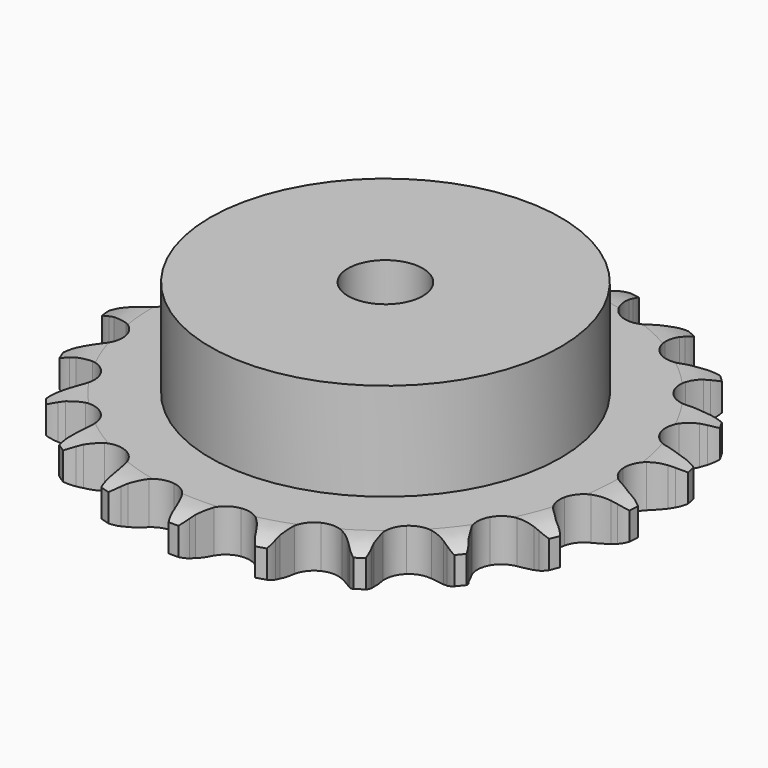
from build123d import *

# Parameters (mm, degrees)
PAD_DEPTH         = 9.1
SKETCH001_R       = 37.5
PAD001_DEPTH      = 30
SKETCH002_R       = 8
POCKET_DEPTH      = 0.001
POCKET_DEPTH_BACK = -30.001


with BuildPart() as part:
    # Sprocket → Pad (new body)
    with BuildSketch(Plane.XY):
        with BuildLine():
            ThreePointArc((-8.672796, 57.540243), (-7.31066, 56.082373), (-6.33219, 54.343582))
            Line((-6.33219, 54.343582), (-5.841747, 53.160938))
            ThreePointArc((-5.841747, 53.160938), (-5.053924, 51.570894), (-4.061016, 50.100166))
            ThreePointArc((-4.061016, 50.100166), (-2.260524, 48.636572), (0, 48.113205))
            ThreePointArc((0, 48.113205), (2.260524, 48.636572), (4.061016, 50.100166))
            ThreePointArc((4.061016, 50.100166), (5.053924, 51.570894), (5.841747, 53.160938))
            Line((5.841747, 53.160938), (6.33219, 54.343582))
            ThreePointArc((6.33219, 54.343582), (7.31066, 56.082373), (8.672796, 57.540243))
            ThreePointArc((8.672796, 57.540243), (9.544702, 55.745645), (9.967183, 53.795695))
            Line((9.967183, 53.795695), (10.087247, 52.521032))
            ThreePointArc((10.087247, 52.521032), (10.371395, 50.769414), (10.886686, 49.071362))
            ThreePointArc((10.886686, 49.071362), (12.175787, 47.142087), (14.181616, 45.97567))
            ThreePointArc((14.181616, 45.97567), (16.495976, 45.809485), (18.64788, 46.67735))
            Line((18.64788, 46.67735), (21.251677, 49.077262))
            ThreePointArc((21.251677, 49.077262), (21.648407, 49.579893), (22.068921, 50.062803))
            ThreePointArc((22.068921, 50.062803), (23.516438, 51.435936), (25.247772, 52.42754))
            ThreePointArc((25.247772, 52.42754), (25.551975, 50.455673), (25.380929, 48.467824))
            Line((25.380929, 48.467824), (25.119945, 47.214402))
            ThreePointArc((25.119945, 47.214402), (24.875171, 45.456849), (24.867059, 43.682351))
            ThreePointArc((24.867059, 43.682351), (25.530225, 41.45882), (27.103133, 39.752996))
            ThreePointArc((27.103133, 39.752996), (29.265689, 38.912024), (31.577797, 39.107048))
            Line((31.577797, 39.107048), (34.773301, 40.632855))
            ThreePointArc((34.773301, 40.632855), (35.300559, 40.996218), (35.844731, 41.333725))
            ThreePointArc((35.844731, 41.333725), (37.632677, 42.21919), (39.579373, 42.65642))
            ThreePointArc((39.579373, 42.65642), (39.288843, 40.682492), (38.539467, 38.833375))
            Line((38.539467, 38.833375), (37.920625, 37.712565))
            ThreePointArc((37.920625, 37.712565), (37.168678, 36.105243), (36.637885, 34.411973))
            ThreePointArc((36.637885, 34.411973), (36.61619, 32.091755), (37.616418, 29.998093))
            ThreePointArc((37.616418, 29.998093), (39.435017, 28.557058), (41.701889, 28.061912))
            Line((41.701889, 28.061912), (45.205165, 28.578041))
            ThreePointArc((45.205165, 28.578041), (45.816102, 28.769848), (46.435579, 28.931963))
            ThreePointArc((46.435579, 28.931963), (48.405087, 29.251083), (50.394173, 29.09509))
            ThreePointArc((50.394173, 29.09509), (49.534725, 27.294493), (48.273605, 25.748409))
            Line((48.273605, 25.748409), (47.351892, 24.859801))
            ThreePointArc((47.351892, 24.859801), (46.159585, 23.545529), (45.153273, 22.083939))
            ThreePointArc((45.153273, 22.083939), (44.448646, 19.873197), (44.787319, 17.577728))
            ThreePointArc((44.787319, 17.577728), (46.10037, 15.664673), (48.120585, 14.523353))
            Line((48.120585, 14.523353), (51.620352, 13.983942))
            ThreePointArc((51.620352, 13.983942), (52.260682, 13.987151), (52.900422, 13.95947))
            ThreePointArc((52.900422, 13.95947), (54.876493, 13.68389), (56.73123, 12.948533))
            ThreePointArc((56.73123, 12.948533), (55.379229, 11.481259), (53.718421, 10.375585))
            Line((53.718421, 10.375585), (52.575735, 9.798134))
            ThreePointArc((52.575735, 9.798134), (51.049011, 8.89369), (49.656595, 7.793651))
            ThreePointArc((49.656595, 7.793651), (48.331645, 5.888818), (47.978671, 3.595504))
            ThreePointArc((47.978671, 3.595504), (48.669504, 1.380413), (50.263556, -0.305671))
            Line((50.263556, -0.305671), (53.448844, -1.852691))
            ThreePointArc((53.448844, -1.852691), (54.061672, -2.038365), (54.664831, -2.253383))
            ThreePointArc((54.664831, -2.253383), (56.471882, -3.099177), (58.027468, -4.348558))
            ThreePointArc((58.027468, -4.348558), (56.303046, -5.352135), (54.390119, -5.919156))
            Line((54.390119, -5.919156), (53.127994, -6.134139))
            ThreePointArc((53.127994, -6.134139), (51.402508, -6.548392), (49.747711, -7.189138))
            ThreePointArc((49.747711, -7.189138), (47.920166, -8.618808), (46.906906, -10.706195))
            ThreePointArc((46.906906, -10.706195), (46.914138, -13.026503), (47.940389, -15.107534))
            Line((47.940389, -15.107534), (50.528172, -17.524704))
            ThreePointArc((50.528172, -17.524704), (51.059045, -17.882764), (51.57203, -18.266013))
            ThreePointArc((51.57203, -18.266013), (53.049496, -19.606869), (54.16771, -21.25926))
            ThreePointArc((54.16771, -21.25926), (52.22409, -21.709969), (50.229017, -21.687953))
            Line((50.229017, -21.687953), (48.959597, -21.521368))
            ThreePointArc((48.959597, -21.521368), (47.188666, -21.40862), (45.418524, -21.53314))
            ThreePointArc((45.418524, -21.53314), (43.250769, -22.360615), (41.667258, -24.056602))
            ThreePointArc((41.667258, -24.056602), (40.990245, -26.275957), (41.357508, -28.567026))
            Line((41.357508, -28.567026), (43.117849, -31.639571))
            ThreePointArc((43.117849, -31.639571), (43.519598, -32.138201), (43.896827, -32.655628))
            ThreePointArc((43.896827, -32.655628), (44.91343, -34.372404), (45.494914, -36.280983))
            ThreePointArc((45.494914, -36.280983), (43.504794, -36.138777), (41.604847, -35.529681))
            Line((41.604847, -35.529681), (40.440925, -34.996328))
            ThreePointArc((40.440925, -34.996328), (38.781905, -34.366599), (37.053702, -33.963828))
            ThreePointArc((37.053702, -33.963828), (34.738352, -34.115584), (32.72529, -35.269475))
            ThreePointArc((32.72529, -35.269475), (31.42419, -37.190677), (31.099831, -39.488213))
            Line((31.099831, -39.488213), (31.876317, -42.943123))
            ThreePointArc((31.876317, -42.943123), (32.113243, -43.538017), (32.321199, -44.143647))
            ThreePointArc((32.321199, -44.143647), (32.786608, -46.0838), (32.779695, -48.078982))
            ThreePointArc((32.779695, -48.078982), (30.919907, -47.356496), (29.283903, -46.214441))
            Line((29.283903, -46.214441), (28.328899, -45.361711))
            ThreePointArc((28.328899, -45.361711), (26.929201, -44.270954), (25.396496, -43.376681))
            ThreePointArc((25.396496, -43.376681), (23.139279, -42.839233), (20.875537, -43.3485))
            ThreePointArc((20.875537, -43.3485), (19.065957, -44.800842), (18.078798, -46.900699))
            Line((18.078798, -46.900699), (17.802434, -50.43099))
            ThreePointArc((17.802434, -50.43099), (17.853486, -51.06929), (17.87369, -51.70931))
            ThreePointArc((17.87369, -51.70931), (17.746553, -53.700449), (17.151856, -55.604953))
            ThreePointArc((17.151856, -55.604953), (15.58765, -54.366382), (14.360955, -52.792845))
            Line((14.360955, -52.792845), (13.699727, -51.696507))
            ThreePointArc((13.699727, -51.696507), (12.683719, -50.241641), (11.4827, -48.935325))
            ThreePointArc((11.4827, -48.935325), (9.48418, -47.756428), (7.170901, -47.57582))
            ThreePointArc((7.170901, -47.57582), (5.01363, -48.430256), (3.451384, -50.145851))
            Line((3.451384, -50.145851), (2.146727, -53.437842))
            ThreePointArc((2.146727, -53.437842), (2.007368, -54.062832), (1.838026, -54.680373))
            ThreePointArc((1.838026, -54.680373), (1.129638, -56.545577), (0, -58.190179))
            ThreePointArc((0, -58.190179), (-1.129638, -56.545577), (-1.838026, -54.680373))
            Line((-1.838026, -54.680373), (-2.146727, -53.437842))
            ThreePointArc((-2.146727, -53.437842), (-2.688767, -51.748138), (-3.451384, -50.145851))
            ThreePointArc((-3.451384, -50.145851), (-5.01363, -48.430256), (-7.170901, -47.57582))
            ThreePointArc((-7.170901, -47.57582), (-9.48418, -47.756428), (-11.4827, -48.935325))
            Line((-11.4827, -48.935325), (-13.699727, -51.696507))
            ThreePointArc((-13.699727, -51.696507), (-14.017113, -52.252654), (-14.360955, -52.792845))
            ThreePointArc((-14.360955, -52.792845), (-15.58765, -54.366382), (-17.151856, -55.604953))
            ThreePointArc((-17.151856, -55.604953), (-17.746553, -53.700449), (-17.87369, -51.70931))
            Line((-17.87369, -51.70931), (-17.802434, -50.43099))
            ThreePointArc((-17.802434, -50.43099), (-17.822344, -48.656585), (-18.078798, -46.900699))
            ThreePointArc((-18.078798, -46.900699), (-19.065957, -44.800842), (-20.875537, -43.3485))
            ThreePointArc((-20.875537, -43.3485), (-23.139279, -42.839233), (-25.396496, -43.376681))
            Line((-25.396496, -43.376681), (-28.328899, -45.361711))
            ThreePointArc((-28.328899, -45.361711), (-28.796112, -45.799599), (-29.283903, -46.214441))
            ThreePointArc((-29.283903, -46.214441), (-30.919907, -47.356496), (-32.779695, -48.078982))
            ThreePointArc((-32.779695, -48.078982), (-32.786608, -46.0838), (-32.321199, -44.143647))
            Line((-32.321199, -44.143647), (-31.876317, -42.943123))
            ThreePointArc((-31.876317, -42.943123), (-31.372327, -41.241682), (-31.099831, -39.488213))
            ThreePointArc((-31.099831, -39.488213), (-31.42419, -37.190677), (-32.72529, -35.269475))
            ThreePointArc((-32.72529, -35.269475), (-34.738352, -34.115584), (-37.053702, -33.963828))
            Line((-37.053702, -33.963828), (-40.440925, -34.996328))
            ThreePointArc((-40.440925, -34.996328), (-41.01645, -35.277048), (-41.604847, -35.529681))
            ThreePointArc((-41.604847, -35.529681), (-43.504794, -36.138777), (-45.494914, -36.280983))
            ThreePointArc((-45.494914, -36.280983), (-44.91343, -34.372404), (-43.896827, -32.655628))
            Line((-43.896827, -32.655628), (-43.117849, -31.639571))
            ThreePointArc((-43.117849, -31.639571), (-42.134742, -30.162274), (-41.357508, -28.567026))
            ThreePointArc((-41.357508, -28.567026), (-40.990245, -26.275957), (-41.667258, -24.056602))
            ThreePointArc((-41.667258, -24.056602), (-43.250769, -22.360615), (-45.418524, -21.53314))
            Line((-45.418524, -21.53314), (-48.959597, -21.521368))
            ThreePointArc((-48.959597, -21.521368), (-49.592297, -21.619977), (-50.229017, -21.687953))
            ThreePointArc((-50.229017, -21.687953), (-52.22409, -21.709969), (-54.16771, -21.25926))
            ThreePointArc((-54.16771, -21.25926), (-53.049496, -19.606869), (-51.57203, -18.266013))
            Line((-51.57203, -18.266013), (-50.528172, -17.524704))
            ThreePointArc((-50.528172, -17.524704), (-49.1533, -16.402815), (-47.940389, -15.107534))
            ThreePointArc((-47.940389, -15.107534), (-46.914138, -13.026503), (-46.906906, -10.706195))
            ThreePointArc((-46.906906, -10.706195), (-47.920166, -8.618808), (-49.747711, -7.189138))
            Line((-49.747711, -7.189138), (-53.127994, -6.134139))
            ThreePointArc((-53.127994, -6.134139), (-53.761651, -6.041876), (-54.390119, -5.919156))
            ThreePointArc((-54.390119, -5.919156), (-56.303046, -5.352135), (-58.027468, -4.348558))
            ThreePointArc((-58.027468, -4.348558), (-56.471882, -3.099177), (-54.664831, -2.253383))
            Line((-54.664831, -2.253383), (-53.448844, -1.852691))
            ThreePointArc((-53.448844, -1.852691), (-51.804371, -1.185895), (-50.263556, -0.305671))
            ThreePointArc((-50.263556, -0.305671), (-48.669504, 1.380413), (-47.978671, 3.595504))
            ThreePointArc((-47.978671, 3.595504), (-48.331645, 5.888818), (-49.656595, 7.793651))
            Line((-49.656595, 7.793651), (-52.575735, 9.798134))
            ThreePointArc((-52.575735, 9.798134), (-53.154045, 10.073072), (-53.718421, 10.375585))
            ThreePointArc((-53.718421, 10.375585), (-55.379229, 11.481259), (-56.73123, 12.948533))
            ThreePointArc((-56.73123, 12.948533), (-54.876493, 13.68389), (-52.900422, 13.95947))
            Line((-52.900422, 13.95947), (-51.620352, 13.983942))
            ThreePointArc((-51.620352, 13.983942), (-49.852397, 14.136398), (-48.120585, 14.523353))
            ThreePointArc((-48.120585, 14.523353), (-46.10037, 15.664673), (-44.787319, 17.577728))
            ThreePointArc((-44.787319, 17.577728), (-44.448646, 19.873197), (-45.153273, 22.083939))
            Line((-45.153273, 22.083939), (-47.351892, 24.859801))
            ThreePointArc((-47.351892, 24.859801), (-47.82347, 25.292984), (-48.273605, 25.748409))
            ThreePointArc((-48.273605, 25.748409), (-49.534725, 27.294493), (-50.394173, 29.09509))
            ThreePointArc((-50.394173, 29.09509), (-48.405087, 29.251083), (-46.435579, 28.931963))
            Line((-46.435579, 28.931963), (-45.205165, 28.578041))
            ThreePointArc((-45.205165, 28.578041), (-43.470819, 28.202609), (-41.701889, 28.061912))
            ThreePointArc((-41.701889, 28.061912), (-39.435017, 28.557058), (-37.616418, 29.998093))
            ThreePointArc((-37.616418, 29.998093), (-36.61619, 32.091755), (-36.637885, 34.411973))
            Line((-36.637885, 34.411973), (-37.920625, 37.712565))
            ThreePointArc((-37.920625, 37.712565), (-38.24357, 38.265503), (-38.539467, 38.833375))
            ThreePointArc((-38.539467, 38.833375), (-39.288843, 40.682492), (-39.579373, 42.65642))
            ThreePointArc((-39.579373, 42.65642), (-37.632677, 42.21919), (-35.844731, 41.333725))
            Line((-35.844731, 41.333725), (-34.773301, 40.632855))
            ThreePointArc((-34.773301, 40.632855), (-33.226667, 39.762895), (-31.577797, 39.107048))
            ThreePointArc((-31.577797, 39.107048), (-29.265689, 38.912024), (-27.103133, 39.752996))
            ThreePointArc((-27.103133, 39.752996), (-25.530225, 41.45882), (-24.867059, 43.682351))
            Line((-24.867059, 43.682351), (-25.119945, 47.214402))
            ThreePointArc((-25.119945, 47.214402), (-25.26556, 47.837964), (-25.380929, 48.467824))
            ThreePointArc((-25.380929, 48.467824), (-25.551975, 50.455673), (-25.247772, 52.42754))
            ThreePointArc((-25.247772, 52.42754), (-23.516438, 51.435936), (-22.068921, 50.062803))
            Line((-22.068921, 50.062803), (-21.251677, 49.077262))
            ThreePointArc((-21.251677, 49.077262), (-20.03018, 47.790073), (-18.64788, 46.67735))
            ThreePointArc((-18.64788, 46.67735), (-16.495976, 45.809485), (-14.181616, 45.97567))
            ThreePointArc((-14.181616, 45.97567), (-12.175787, 47.142087), (-10.886686, 49.071362))
            Line((-10.886686, 49.071362), (-10.087247, 52.521032))
            ThreePointArc((-10.087247, 52.521032), (-10.042595, 53.159812), (-9.967183, 53.795695))
            ThreePointArc((-9.967183, 53.795695), (-9.544702, 55.745645), (-8.672796, 57.540243))
        make_face()
    extrude(amount=PAD_DEPTH)

    # Sketch → Groove (revolve, cut)
    with BuildSketch(Plane.XZ):
        with BuildLine():
            Line((49.725762, 0), (56.7, 0))
            Line((63.674238, 0), (56.7, 0))
            Line((63.674238, 9.1), (63.674238, 0))
            Line((56.7, 9.1), (63.674238, 9.1))
            Line((49.725762, 9.1), (56.7, 9.1))
            ThreePointArc((56.7, 7.5), (53.30347, 8.694871), (49.725762, 9.1))
            Line((56.7, 1.6), (56.7, 7.5))
            ThreePointArc((49.725762, 0), (53.30347, 0.405129), (56.7, 1.6))
        make_face()
    revolve(axis=Axis((0, 0, 0), (0, 0, 1)), mode=Mode.SUBTRACT)

    # Sketch001 → Pad001 (join)
    with BuildSketch(Plane.XY):
        Circle(SKETCH001_R)
    extrude(amount=PAD001_DEPTH)

    # Sketch002 → Pocket (cut, two sides)
    with BuildSketch(Plane.XY) as pocket_sk:
        Circle(SKETCH002_R)
    extrude(amount=-POCKET_DEPTH, mode=Mode.SUBTRACT)
    extrude(pocket_sk.sketch, amount=-POCKET_DEPTH_BACK, mode=Mode.SUBTRACT)


solid = part.part
